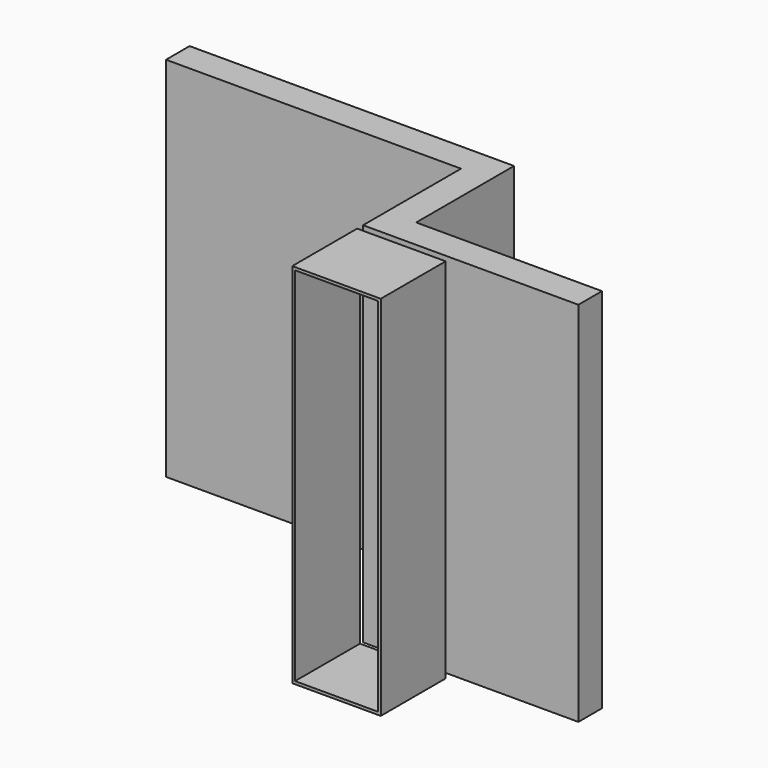
from build123d import *

# Parameters (mm, degrees)
F1_DEPTH = 2490
F2_W     = 600
F2_H     = 550
F3_DEPTH = 2490
F4_W     = 562
F4_H     = 2452
F5_DEPTH = 550


with BuildPart() as f1:
    # F0 (on Top) → F1 (new body)
    with BuildSketch(Plane.XY):
        Polygon((-1460, 0), (0, 0), (0, 200), (-1260, 200), (-1460, 200), align=None)
        Polygon((-1460, 830), (-1460, 200), (-1260, 200), (-1260, 1030), (-3460, 1030), (-3460, 830), align=None)
    extrude(amount=F1_DEPTH)


with BuildPart() as f3:
    # F2 (on Top) → F3 (new body)
    with BuildSketch(Plane.XY):
        with Locations((-1160, -325)):
            Rectangle(F2_W, F2_H)
    extrude(amount=F3_DEPTH)

    # F4 (on face) → F5 (cut, through all)
    with BuildSketch(Plane.XZ.offset(600)):
        with Locations((-1160, 1245)):
            Rectangle(F4_W, F4_H)
    extrude(amount=-F5_DEPTH, mode=Mode.SUBTRACT)


solid = Compound([f1.part, f3.part])
